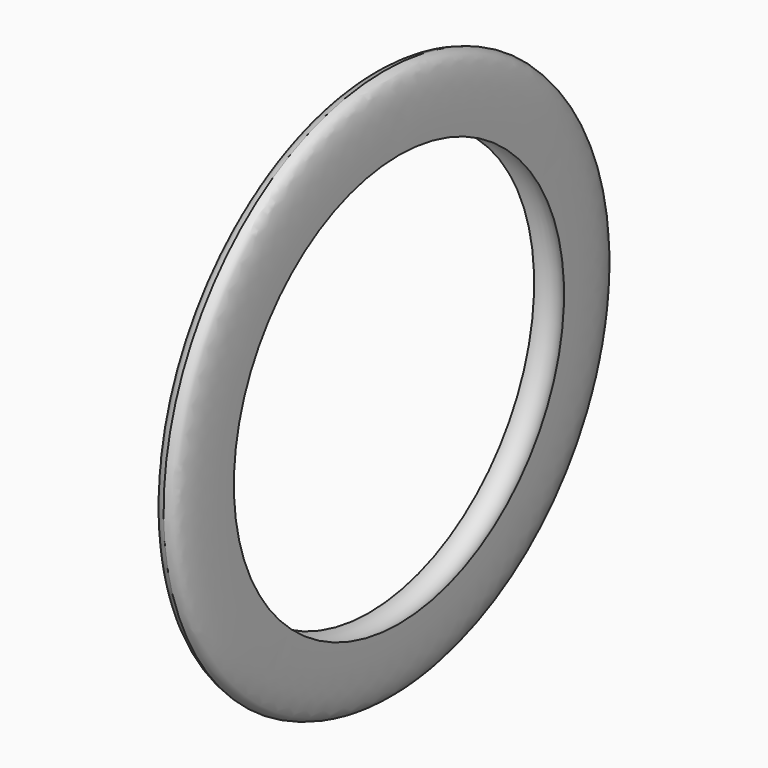
from build123d import *


with BuildPart() as f2:
    # F0 (on Front) → F2 (revolve)
    with BuildSketch(Plane.XZ):
        with BuildLine():
            add(Edge.make_bspline(
                [(-46.7208400369, 5.6596468203), (-46.7949461025, 17.6323565094), (-46.8996831173, 34.5538576238), (-41.655494625, 35.827038121), (-40.1218011975, 36.1993871629)],
                knots=[0, 0, 0, 0, 0.7075441835, 1, 1, 1, 1], degree=3))
            ThreePointArc((-46.7208400369, 5.6596468203), (-40.1218011975, 9.4978480338), (-33.5227623582, 5.6596468203))
            add(Edge.make_bspline(
                [(-33.5227623582, 5.6596468203), (-33.4486562926, 17.6323565094), (-33.3439192778, 34.5538576238), (-38.58810777, 35.827038121), (-40.1218011975, 36.1993871629)],
                knots=[0, 0, 0, 0, 0.7075441835, 1, 1, 1, 1], degree=3))
        make_face()
    revolve(axis=Axis((10.8221173286, 0, -85.4342579842), (-1, 0, 0)))


solid = f2.part
